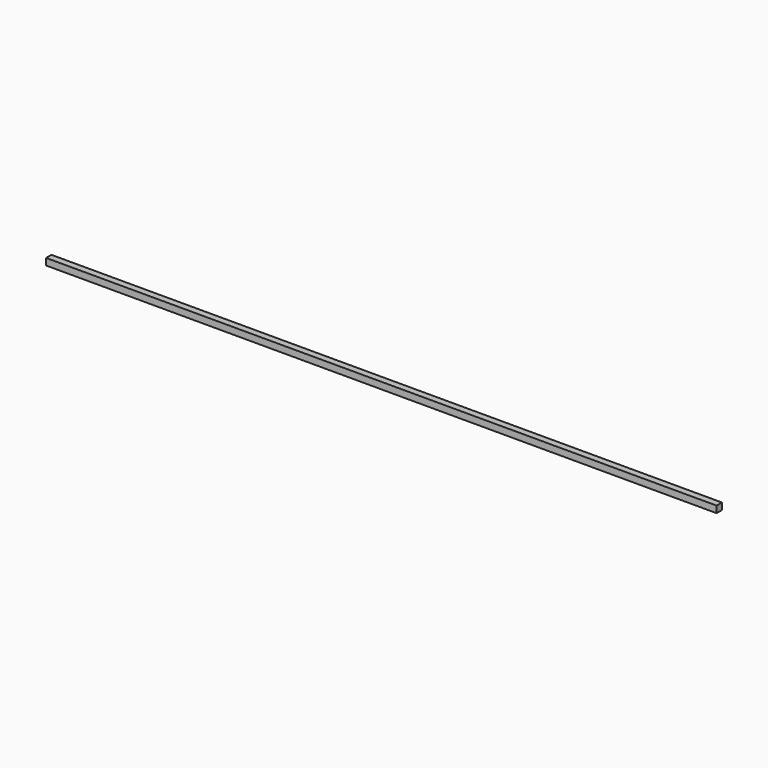
from build123d import *

# Parameters (mm, degrees)
BOX_W     = 1000
BOX_H     = 10
BOX_DEPTH = 10


with BuildPart() as part:
    # Box → Box (new body)
    with BuildSketch(Plane.XY):
        with Locations((500, 5)):
            Rectangle(BOX_W, BOX_H)
    extrude(amount=BOX_DEPTH)


solid = part.part
